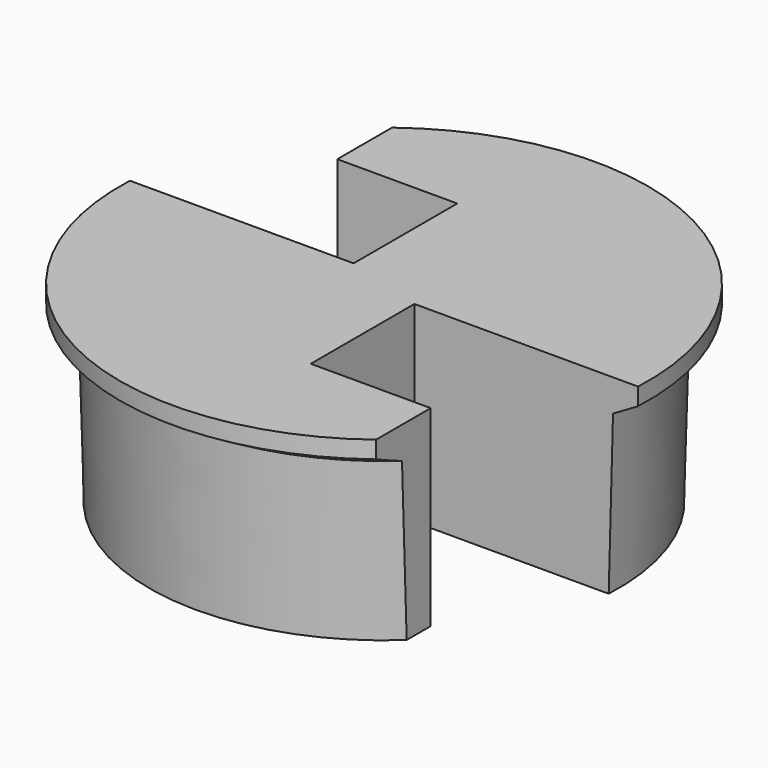
from build123d import *

# Parameters (mm, degrees)
PAD011_DEPTH    = 12
POCKET009_DEPTH = 11.401
POCKET010_DEPTH = 5


with BuildPart() as part:
    # Sketch031 → Pad011 (new body)
    with BuildSketch(Plane.XY):
        with BuildLine():
            ThreePointArc((16.4829457319, -0.75), (7.6571484981, 14.6156791453), (-10, 13.1244047484))
            Line((-10, 8.85), (-10, 13.1244047484))
            Line((-2.5, 8.85), (-10, 8.85))
            Line((-2.5, 0.75), (-2.5, 8.85))
            Line((-16.4829457319, 0.75), (-2.5, 0.75))
            ThreePointArc((-16.4829457319, 0.75), (-7.6571484981, -14.6156791453), (10, -13.1244047484))
            Line((10, -13.1244047484), (10, -8.85))
            Line((10, -8.85), (2.5, -8.85))
            Line((2.5, -8.85), (2.5, -0.75))
            Line((16.4829457319, -0.75), (2.5, -0.75))
        make_face()
    extrude(amount=-PAD011_DEPTH)

    # Sketch032 → Pocket009 (cut, through all)
    with BuildSketch(Plane.XY.offset(-0.6)):
        Polygon((-0.55, 3.043445), (9.55, 3.043445), (9.55, 1.943445), (0.55, 1.943445), (0.55, -7.056555), (-0.55, -7.056555), align=None)
    extrude(amount=-POCKET009_DEPTH, mode=Mode.SUBTRACT)

    # Sketch035 → Pocket010 (cut)
    with BuildSketch(Plane.XY.offset(-10)):
        Polygon((0.55, 2.15), (1.65, 2.15), (1.65, -8.15), (-8.45, -8.15), (-8.45, -7.05), (0.55, -7.05), align=None)
    extrude(amount=-POCKET010_DEPTH, mode=Mode.SUBTRACT)

    # Sketch046 → Groove (revolve, cut)
    with BuildSketch(Plane.YZ):
        Polygon((16.5, 0), (16.5, -1.080549), (14.935277, -1.996929), (14.625, -13.52658), (22.461165, -13.52658), (22.461165, 0), align=None)
    revolve(axis=Axis((0, 0, 0), (0, 0, 1)), mode=Mode.SUBTRACT)


solid = part.part
